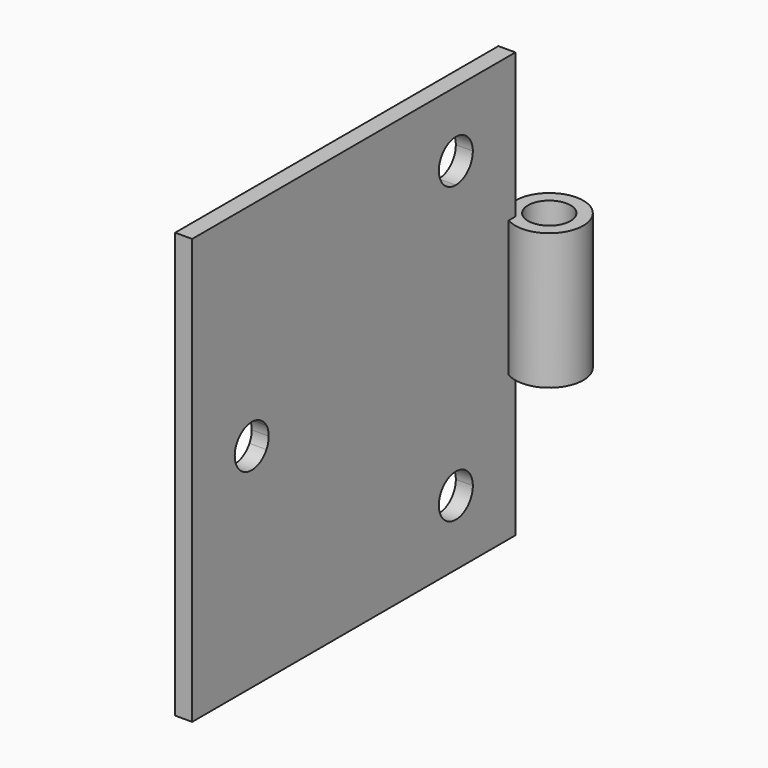
from build123d import *

# Parameters (mm, degrees)
F0_W      = 0.2
F0_H      = 5
F1_DEPTH  = 5
F2_R      = 0.4
F3_DEPTH  = 5
F4_R      = 0.25
F5_DEPTH  = 5.001
F6_W      = 0.8436968248
F6_H      = 1.7
F7_DEPTH  = 5.401
F8_W      = 0.7987116055
F8_H      = 1.7
F9_DEPTH  = 0.201
F11_DEPTH = 0.201


with BuildPart() as f1:
    # F0 (on Front) → F1 (new body)
    with BuildSketch(Plane.XZ):
        Rectangle(F0_W, F0_H)
    extrude(amount=-F1_DEPTH)

    # F2 (on face) → F3 (join)
    with BuildSketch(Plane(origin=(0, 0, -2.5), x_dir=(1, 0, 0), z_dir=(0, 0, -1))):
        with Locations((0.3, -5)):
            Circle(F2_R)
    extrude(amount=-F3_DEPTH)

    # F4 (on face) → F5 (cut, through all)
    with BuildSketch(Plane(origin=(0, 0, -2.5), x_dir=(1, 0, 0), z_dir=(0, 0, -1))):
        with Locations((0.3, -5)):
            Circle(F4_R)
    extrude(amount=-F5_DEPTH, mode=Mode.SUBTRACT)

    # F6 (on face) → F7 (cut, through all)
    with BuildSketch(Plane.XZ):
        with Locations((0.5218484124, 1.65)):
            Rectangle(F6_W, F6_H)
        with Locations((0.5218484124, -1.65)):
            Rectangle(F6_W, F6_H)
    extrude(amount=-F7_DEPTH, mode=Mode.SUBTRACT)

    # F8 (on face) → F9 (cut, through all)
    with BuildSketch(Plane.YZ.offset(0.1)):
        with Locations((5.151150722, 1.65)):
            Rectangle(F8_W, F8_H)
        with Locations((5.151150722, -1.65)):
            Rectangle(F8_W, F8_H)
    extrude(amount=-F9_DEPTH, mode=Mode.SUBTRACT)

    # F10 (on face) → F11 (cut, through all)
    with BuildSketch(Plane.YZ.offset(0.1)):
        with BuildLine():
            Line((3.8758974596, 1.4820508076), (3.8758974596, 1.7320508076))
            Line((3.8758974596, 1.7320508076), (3.6593911087, 1.6070508076))
            ThreePointArc((3.6593911087, 1.6070508076), (3.7508974596, 1.5155444566), (3.8758974596, 1.4820508076))
        make_face()
        with BuildLine():
            Line((3.6593911087, 1.6070508076), (3.8758974596, 1.7320508076))
            Line((3.8758974596, 1.7320508076), (3.8758974596, 1.4820508076))
            ThreePointArc((3.8758974596, 1.4820508076), (4.0526741549, 1.5552741123), (4.1258974596, 1.7320508076))
            ThreePointArc((4.1258974596, 1.7320508076), (3.8111926983, 1.9735322641), (3.6593911087, 1.6070508076))
        make_face()
        with BuildLine():
            Line((3.8758974596, -1.7320508076), (3.8758974596, -1.4820508076))
            ThreePointArc((3.8758974596, -1.4820508076), (3.7508974596, -1.5155444566), (3.6593911087, -1.6070508076))
            Line((3.6593911087, -1.6070508076), (3.8758974596, -1.7320508076))
        make_face()
        with BuildLine():
            ThreePointArc((4.1258974596, -1.7320508076), (4.0526741549, -1.5552741123), (3.8758974596, -1.4820508076))
            Line((3.8758974596, -1.4820508076), (3.8758974596, -1.7320508076))
            Line((3.8758974596, -1.7320508076), (3.6593911087, -1.6070508076))
            ThreePointArc((3.6593911087, -1.6070508076), (3.8111926983, -1.9735322641), (4.1258974596, -1.7320508076))
        make_face()
        with BuildLine():
            Line((0.8758974596, 0), (1.0924038106, 0.125))
            ThreePointArc((1.0924038106, 0.125), (0.6258974596, 0), (1.0924038106, -0.125))
            Line((1.0924038106, -0.125), (0.8758974596, 0))
        make_face()
        with BuildLine():
            ThreePointArc((1.1258974596, 0), (1.1173789162, 0.0647047613), (1.0924038106, 0.125))
            Line((1.0924038106, 0.125), (0.8758974596, 0))
            Line((0.8758974596, 0), (1.0924038106, -0.125))
            ThreePointArc((1.0924038106, -0.125), (1.1173789162, -0.0647047613), (1.1258974596, 0))
        make_face()
    extrude(amount=-F11_DEPTH, mode=Mode.SUBTRACT)


solid = f1.part
